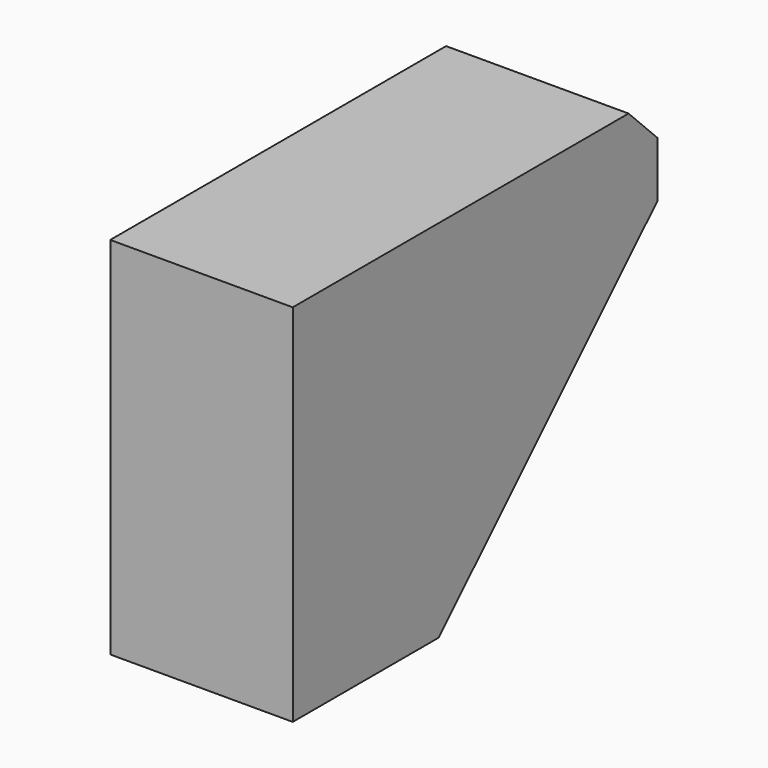
from build123d import *

# Parameters (mm, degrees)
BOX011_W        = 2
BOX011_H        = 5
BOX011_DEPTH    = 4
CHAMFER005_SIZE = 3
CHAMFER006_SIZE = 0.4


with BuildPart() as part:
    # Box011 → Box011 (new body)
    with BuildSketch(Plane(origin=(9, 0, 7), x_dir=(1, 0, 0), z_dir=(0, 0, 1))):
        with Locations((1, 2.5)):
            Rectangle(BOX011_W, BOX011_H)
    extrude(amount=BOX011_DEPTH)

    # Chamfer005
    chamfer005_edges = [part.edges().sort_by_distance(p)[0] for p in [
        (10, 5, 7),
    ]]
    chamfer(chamfer005_edges, length=CHAMFER005_SIZE)


with BuildPart() as part_1:
    # Chamfer005 placement: moved
    add(part.part.moved(Location((0, -9, -2))))

    # Chamfer006
    chamfer006_edges = [part_1.edges().sort_by_distance(p)[0] for p in [
        (10, -4, 9),
    ]]
    chamfer(chamfer006_edges, length=CHAMFER006_SIZE)


solid = part_1.part
